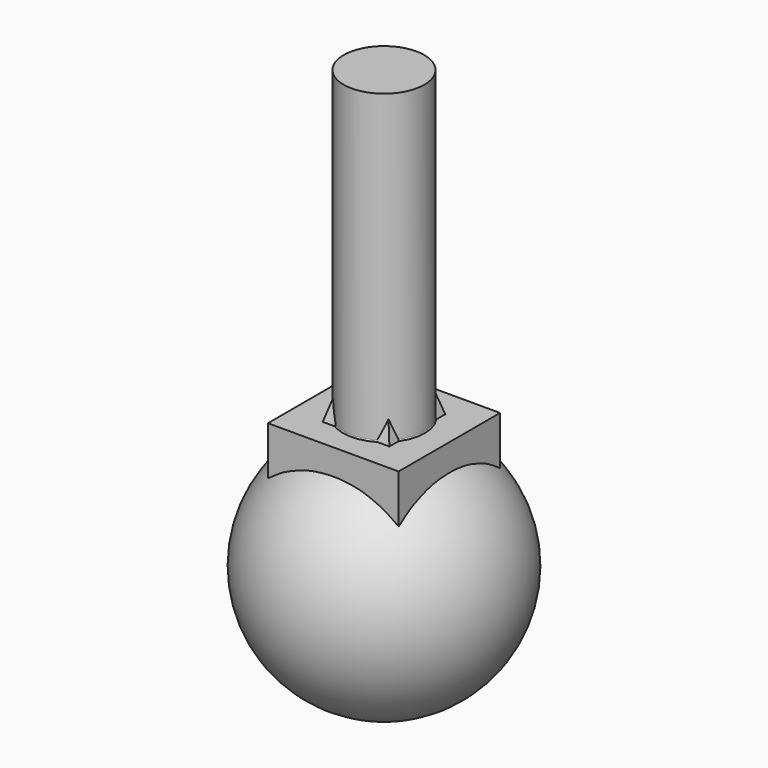
from build123d import *

# Parameters (mm, degrees)
F2_W      = 87.5000655651
F2_H      = 91.654330492
F5_W      = 82.3745131493
F5_H      = 79.9225866795
F6_DEPTH  = 81.8590894341
F7_R      = 55.2203299324
F10_R     = 25.3851676602
F11_DEPTH = 275.0810105354


with BuildPart() as f1:
    # F0 (on Front) → F1 (revolve)
    with BuildSketch(Plane.XZ):
        with BuildLine():
            Line((0, -76.9896656275), (0, 76.9896656275))
            ThreePointArc((0, 76.9896656275), (-76.9896656275, 0), (0, -76.9896656275))
        make_face()
    revolve(axis=Axis((0, 0, 0), (0, 0, 1)))


with BuildPart() as f4:
    # F2 (on Top) → F4 section 0
    with BuildSketch(Plane.XY, mode=Mode.PRIVATE) as f4_s0:
        Rectangle(F2_W, F2_H)
    loft([Vertex(0, 0, 157.6454788446), f4_s0.sketch])


with BuildPart() as f6:
    # F5 (on Top) → F6 (new body)
    with BuildSketch(Plane.XY):
        Rectangle(F5_W, F5_H)
        Rectangle(F5_W, F5_H)
    extrude(amount=F6_DEPTH)


with BuildPart() as f9:
    # F7 (on Top) → F9 section 0
    with BuildSketch(Plane.XY, mode=Mode.PRIVATE) as f9_s0:
        Circle(F7_R)
    loft([f9_s0.sketch, Vertex(0, 0, 153.6126732826)])


with BuildPart() as f11:
    # F10 (on Top) → F11 (new body)
    with BuildSketch(Plane.XY):
        Circle(F10_R)
    extrude(amount=F11_DEPTH)


solid = Compound([f1.part, f4.part, f6.part, f9.part, f11.part])
